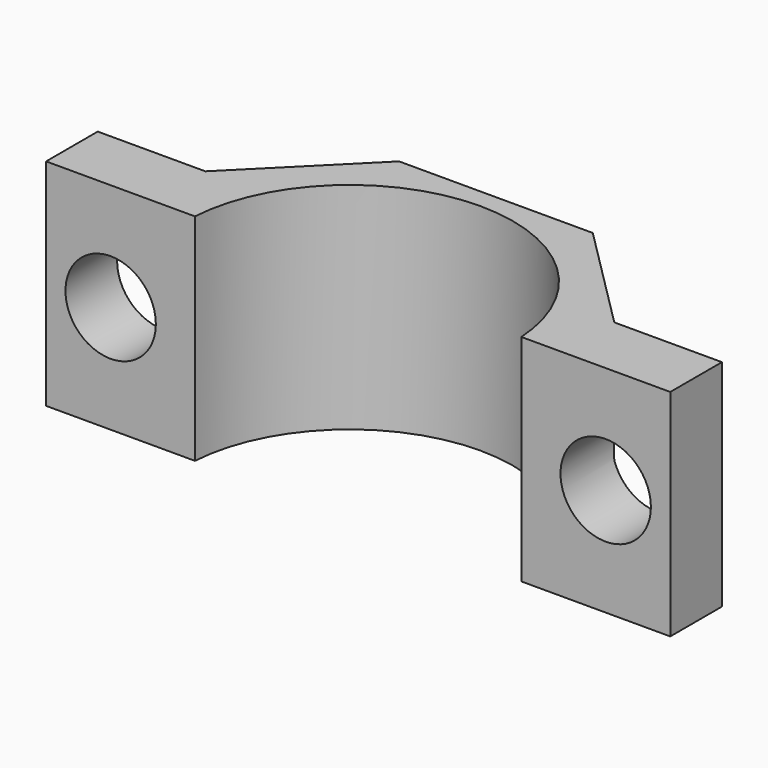
from build123d import *

# Parameters (mm, degrees)
SKETCH_W     = 29
SKETCH_H     = 10
SKETCH_R     = 2.1
PAD_DEPTH    = 10
SKETCH001_R  = 7.6
POCKET_DEPTH = 10.001


with BuildPart() as part:
    # Sketch → Pad (new body)
    with BuildSketch(Plane(origin=(-52.3, -59.3, 36), x_dir=(1, 0, 0), z_dir=(0, -1, 0))):
        with Locations((-22.630757, 6.507574)):
            Rectangle(SKETCH_W, SKETCH_H)
        with Locations((-34.130757, 6.507574)):
            Circle(SKETCH_R, mode=Mode.SUBTRACT)
        with Locations((-11.130757, 6.507574)):
            Circle(SKETCH_R, mode=Mode.SUBTRACT)
    extrude(amount=PAD_DEPTH)

    # Sketch001 → Pocket (cut, through all)
    with BuildSketch(Plane(origin=(-52.3, -59.3, 37.507574), x_dir=(1, 0, 0), z_dir=(0, 0, -1))):
        with Locations((-22.630757, 10.5)):
            Circle(SKETCH001_R)
        Polygon((-8.130757, 7), (-13.130757, 7), (-18.130757, 2), (-27.130757, 2), (-32.130757, 7), (-37.130757, 7), (-37.130757, 0), (-8.130757, 0), align=None)
    extrude(amount=-POCKET_DEPTH, mode=Mode.SUBTRACT)


solid = part.part
